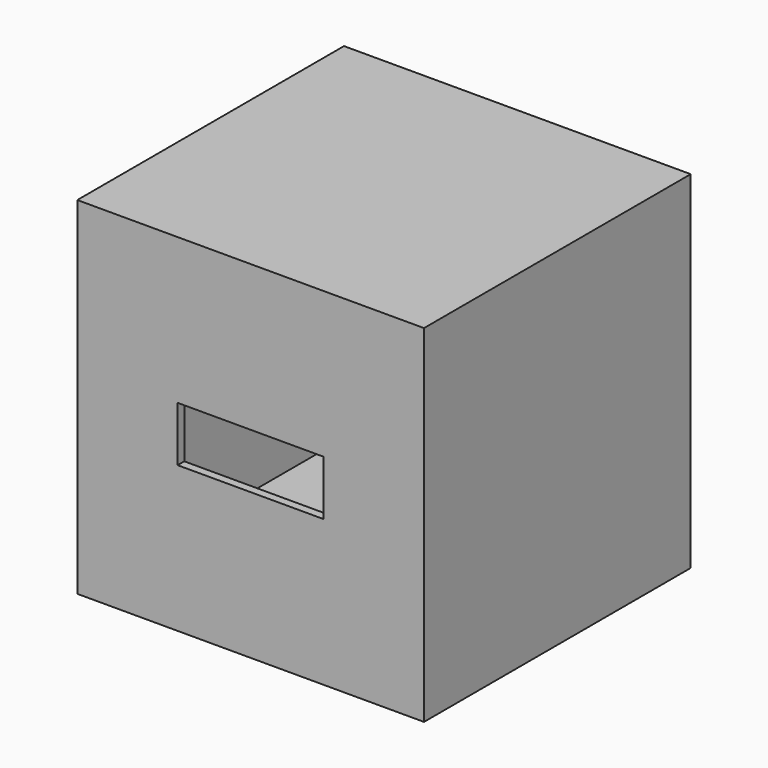
from build123d import *

# Parameters (mm, degrees)
F0_W     = 104
F0_H     = 104
F0_W_2   = 43.8093654811
F0_H_2   = 16.4691451937
F1_DEPTH = 100
F2_DEPTH = 5
F3_T     = -2.5
F4_R     = 15
F5_DEPTH = 25


with BuildPart() as f1:
    # F0 (on Front) → F1 (new body)
    with BuildSketch(Plane.XZ):
        Rectangle(F0_W, F0_H)
        Rectangle(F0_W_2, F0_H_2, mode=Mode.SUBTRACT)
    extrude(amount=F1_DEPTH)

    # F0 (on Front) → F2 (join)
    with BuildSketch(Plane.XZ):
        Rectangle(F0_W_2, F0_H_2)
    extrude(amount=F2_DEPTH)

    # F3
    f3_openings = [f1.faces().sort_by_distance(p)[0] for p in [
        (0, -52.5, -8.234573),
        (21.904683, -52.5, 0),
        (0, -52.5, 8.234573),
        (-21.904683, -52.5, 0),
        (0, -5, 0),
    ]]
    offset(amount=F3_T, openings=f3_openings)

    # F4 (on face) → F5 (cut)
    with BuildSketch(Plane(origin=(0, 0, 0), x_dir=(-1, 0, 0), z_dir=(0, 1, 0))):
        Circle(F4_R)
    extrude(amount=-F5_DEPTH, mode=Mode.SUBTRACT)


solid = f1.part
